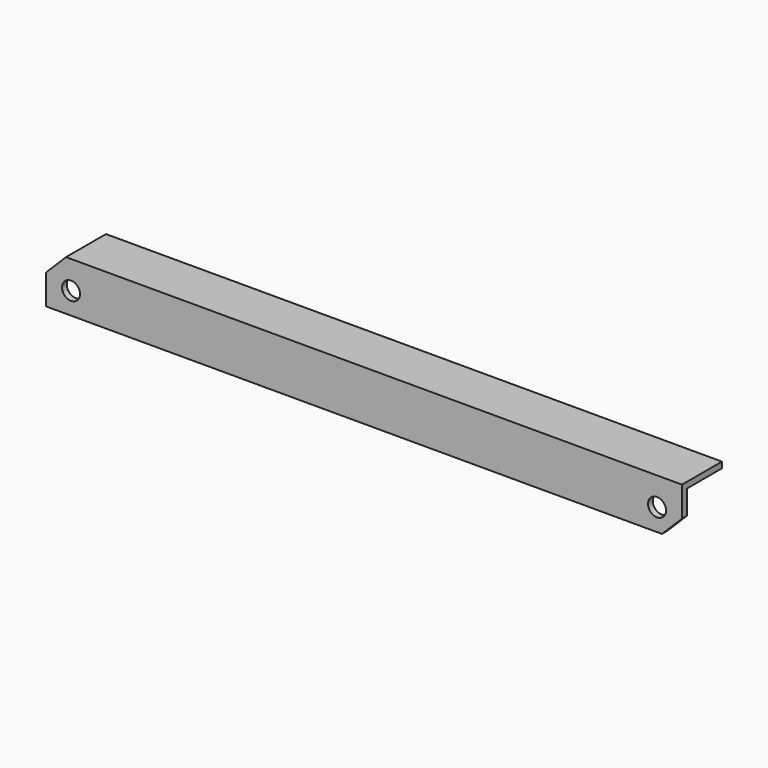
from build123d import *

# Parameters (mm, degrees)
F0_W     = 637
F0_H     = 50
F1_DEPTH = 6
F2_W     = 637
F2_H     = 6
F3_DEPTH = 44
F4_R     = 9
F5_DEPTH = 25
F7_DEPTH = 50


with BuildPart() as f1:
    # F0 (on Front) → F1 (new body)
    with BuildSketch(Plane.XZ):
        with Locations((318.5, 25)):
            Rectangle(F0_W, F0_H)
    extrude(amount=F1_DEPTH)

    # F2 (on face) → F3 (join)
    with BuildSketch(Plane(origin=(0, 0, 0), x_dir=(-1, 0, 0), z_dir=(0, 1, 0))):
        with Locations((-318.5, 47)):
            Rectangle(F2_W, F2_H)
    extrude(amount=F3_DEPTH)

    # F4 (on face) → F5 (cut)
    with BuildSketch(Plane.XZ.offset(6)):
        with Locations((25, 22)):
            Circle(F4_R)
        with Locations((612, 22)):
            Circle(F4_R)
    extrude(amount=-F5_DEPTH, mode=Mode.SUBTRACT)

    # F6 (on face) → F7 (cut)
    with BuildSketch(Plane.XZ.offset(6)):
        Polygon((637, 20), (617, 0), (637, 0), align=None)
        Polygon((0, 50), (0, 30), (20, 50), align=None)
    extrude(amount=-F7_DEPTH, mode=Mode.SUBTRACT)


solid = f1.part
